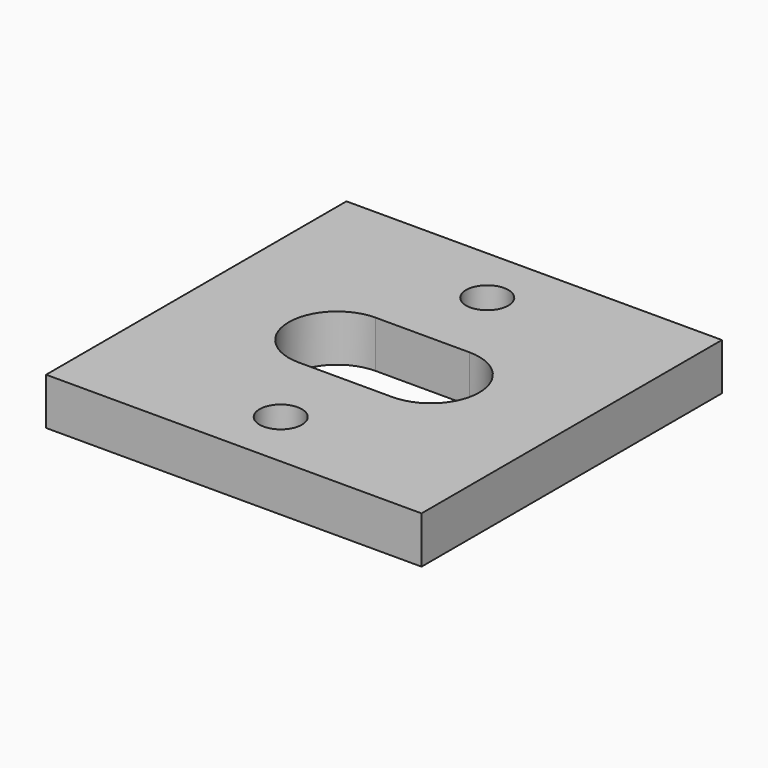
from build123d import *

# Parameters (mm, degrees)
SKETCH_W  = 40
SKETCH_H  = 40
SKETCH_R  = 2.25
PAD_DEPTH = 5


with BuildPart() as part:
    # Sketch → Pad (new body)
    with BuildSketch(Plane.XY):
        Rectangle(SKETCH_W, SKETCH_H)
        with Locations((0, 13.75)):
            Circle(SKETCH_R, mode=Mode.SUBTRACT)
        with Locations((0, -13.75)):
            Circle(SKETCH_R, mode=Mode.SUBTRACT)
        with BuildLine():
            ThreePointArc((-4.999996, 5.15), (-10.149996, 2e-06), (-5, -5.15))
            Line((-5, -5.15), (5, -5.15))
            ThreePointArc((5, -5.15), (10.149996, 0), (4.999999, 5.15))
            Line((-4.999996, 5.15), (4.999999, 5.15))
        make_face(mode=Mode.SUBTRACT)
    extrude(amount=PAD_DEPTH)


solid = part.part
